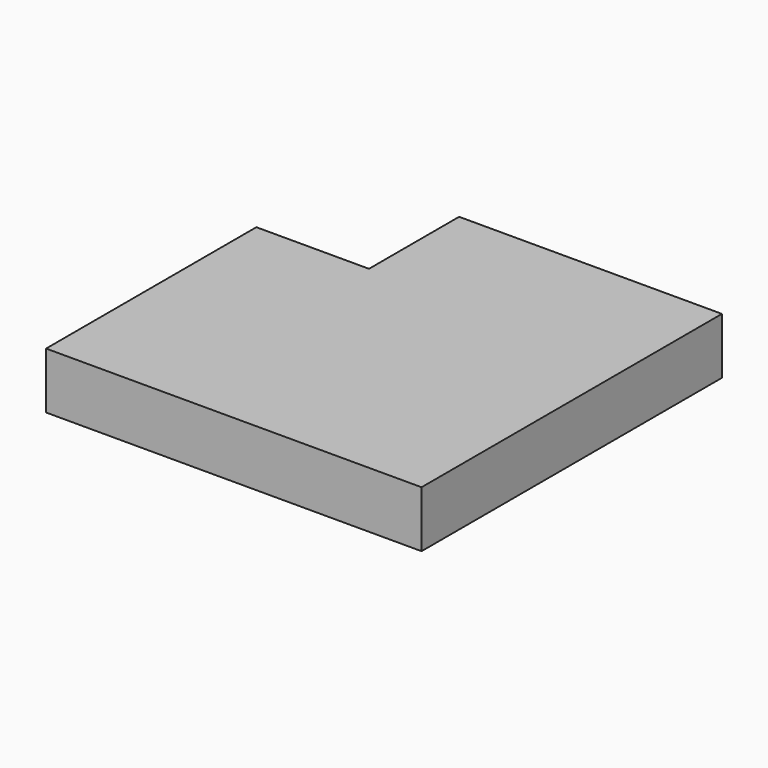
from build123d import *

# Parameters (mm, degrees)
BOX005_W     = 60
BOX005_H     = 60
BOX005_DEPTH = 30
BOX004_W     = 200
BOX004_H     = 200
BOX004_DEPTH = 30


with BuildPart() as obj1:
    # Box005 → Box005 (new body)
    with BuildSketch(Plane(origin=(820, 130, 0), x_dir=(1, 0, 0), z_dir=(0, 0, 1))):
        with Locations((30, 30)):
            Rectangle(BOX005_W, BOX005_H)
    extrude(amount=BOX005_DEPTH)


with BuildPart() as cut001:
    # Box004 → Box004 (new body)
    with BuildSketch(Plane(origin=(820, -10, 0), x_dir=(1, 0, 0), z_dir=(0, 0, 1))):
        with Locations((100, 100)):
            Rectangle(BOX004_W, BOX004_H)
    extrude(amount=BOX004_DEPTH)

    # Cut001: cut obj1
    add(obj1.part, mode=Mode.SUBTRACT)


solid = cut001.part
